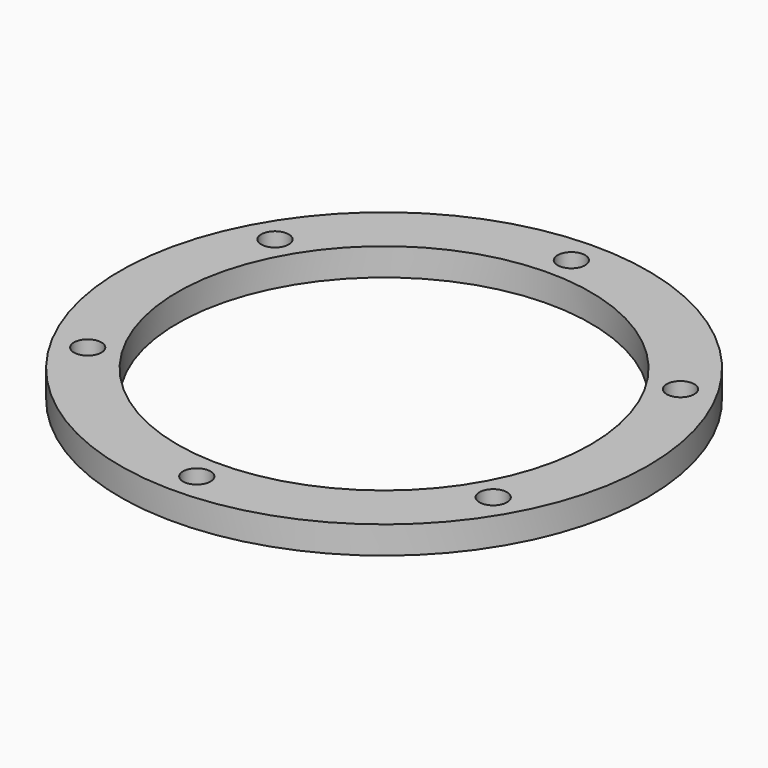
from build123d import *

# Parameters (mm, degrees)
F0_R     = 57.5
F0_R_2   = 3
F0_R_3   = 45
F1_DEPTH = 6


with BuildPart() as f1:
    # F0 (on Top) → F1 (new body)
    with BuildSketch(Plane.XY):
        Circle(F0_R)
        with Locations((-44.167296, -25.5)):
            Circle(F0_R_2, mode=Mode.SUBTRACT)
        with Locations((0, -51)):
            Circle(F0_R_2, mode=Mode.SUBTRACT)
        with Locations((44.167296, -25.5)):
            Circle(F0_R_2, mode=Mode.SUBTRACT)
        with Locations((-44.167296, 25.5)):
            Circle(F0_R_2, mode=Mode.SUBTRACT)
        Circle(F0_R_3, mode=Mode.SUBTRACT)
        with Locations((44.167296, 25.5)):
            Circle(F0_R_2, mode=Mode.SUBTRACT)
        with Locations((0, 51)):
            Circle(F0_R_2, mode=Mode.SUBTRACT)
    extrude(amount=F1_DEPTH)


solid = f1.part
